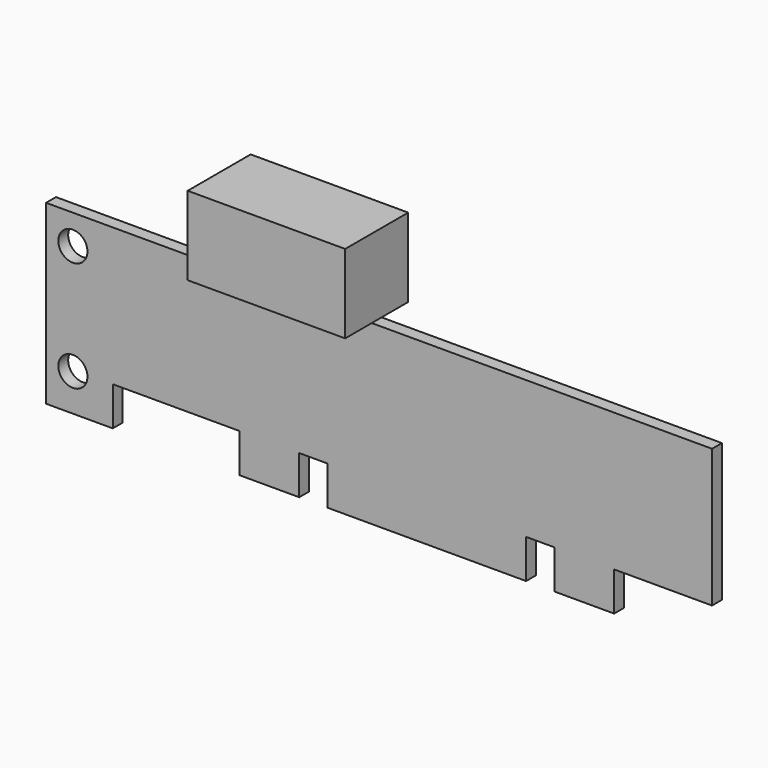
from build123d import *

# Parameters (mm, degrees)
SKETCH_R     = 1.850117
PAD_DEPTH    = 1.57
SKETCH001_W  = 20
SKETCH001_H  = 10
PAD001_DEPTH = 10


with BuildPart() as part:
    # Sketch → Pad (new body)
    with BuildSketch(Plane.XZ):
        Polygon((0, 0), (8.46819, 0), (8.46819, 4.940975), (24.558208, 4.940975), (24.558208, 0), (32.146711, 0), (32.146711, 4.940975), (35.739379, 4.940975), (35.739379, 0), (60.955266, 0), (60.955266, 4.940975), (64.547934, 4.940975), (64.547934, 0), (72.136436, 0), (72.136436, 4.940975), (84.565834, 4.940975), (84.565834, 22.469307), (0, 22.469307), align=None)
        with Locations((3.4028, 4.726487)):
            Circle(SKETCH_R, mode=Mode.SUBTRACT)
        with Locations((3.4028, 18.717941)):
            Circle(SKETCH_R, mode=Mode.SUBTRACT)
    extrude(amount=PAD_DEPTH)

    # Sketch001 (on Face22 of Pad) → Pad001 (join)
    with BuildSketch(Plane.XZ.offset(5.785)):
        with Locations((31.353824, 27.469307)):
            Rectangle(SKETCH001_W, SKETCH001_H)
    extrude(amount=-PAD001_DEPTH)


solid = part.part
